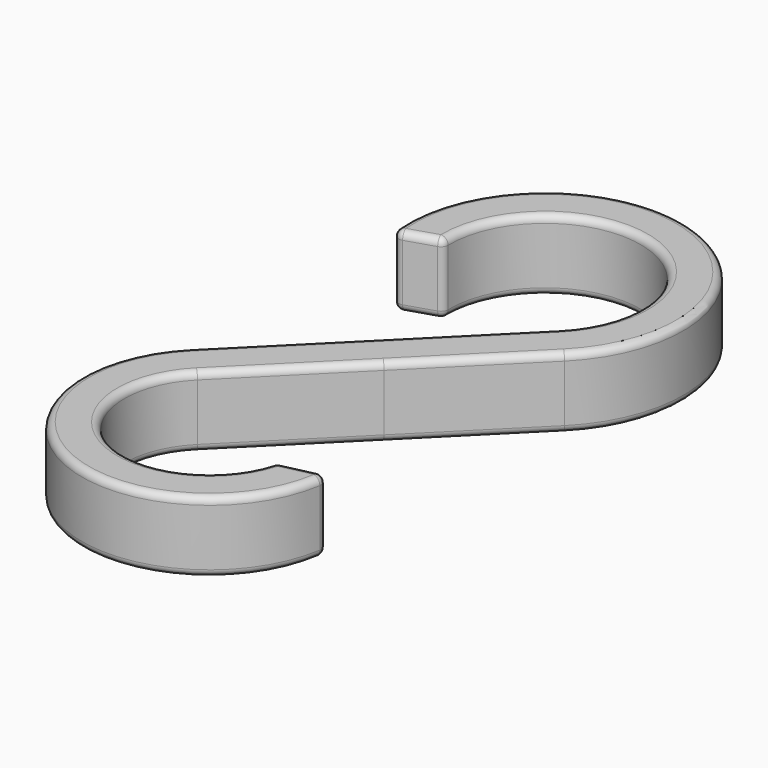
from build123d import *

# Parameters (mm, degrees)
F1_DEPTH = 10
F2_R     = 1


with BuildPart() as f1:
    # F0 (on Top) → F1 (new body)
    with BuildSketch(Plane.XY):
        with BuildLine():
            ThreePointArc((-8.870913, 22.746252), (9.323941, 36.333171), (14.142136, 14.142136))
            Line((14.142136, 14.142136), (0, 0))
            Line((0, 0), (-14.623572, -14.623572))
            ThreePointArc((-14.623572, -14.623572), (-9.397165, -43.713867), (16.054638, -28.688345))
            Line((16.054638, -28.688345), (9.783341, -30.108519))
            ThreePointArc((9.783341, -30.108519), (-7.739219, -37.832557), (-10.380931, -18.866212))
            Line((-10.380931, -18.866212), (4.242641, -4.242641))
            Line((4.242641, -4.242641), (18.384776, 9.899495))
            ThreePointArc((18.384776, 9.899495), (10.743881, 42.193642), (-14.702191, 20.891233))
            Line((-14.702191, 20.891233), (-8.870913, 22.746252))
        make_face()
    extrude(amount=F1_DEPTH)

    # F2
    f2_edges = [f1.edges().sort_by_distance(p)[0] for p in [
        (-14.702191, 20.891233, 5),
        (-8.870913, 22.746252, 5),
        (-11.786552, 21.818742, 0),
        (-11.786552, 21.818742, 10),
        (16.054638, -28.688345, 5),
        (9.783341, -30.108519, 5),
        (12.918989, -29.398432, 0),
        (12.918989, -29.398432, 10),
        (14.142136, 14.142136, 5),
        (9.323941, 36.333171, 0),
        (9.323941, 36.333171, 10),
        (-10.380931, -18.866212, 5),
        (-7.739219, -37.832557, 0),
        (-7.739219, -37.832557, 10),
    ]]
    fillet(f2_edges, radius=F2_R)


solid = f1.part
